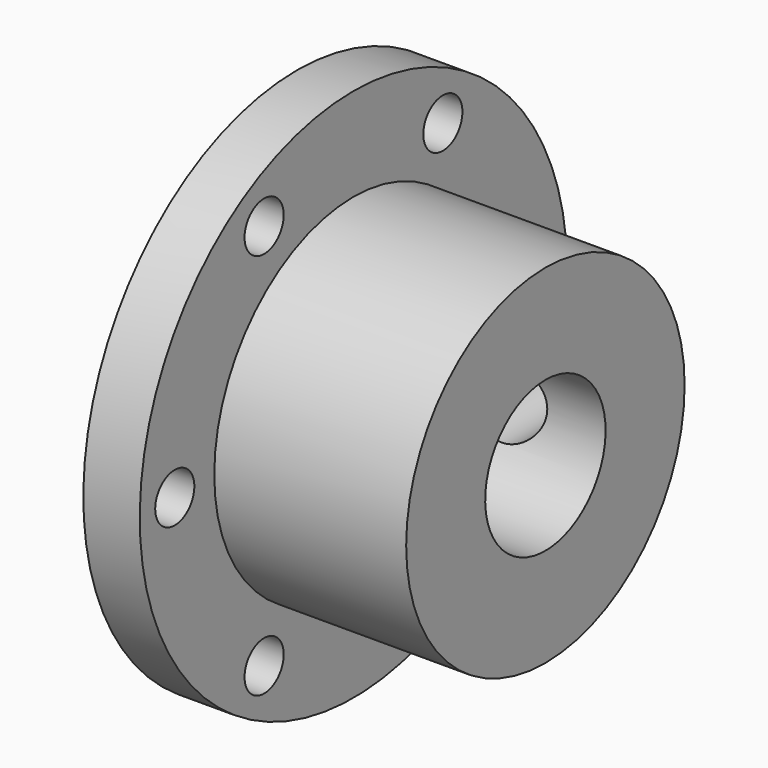
from build123d import *

# Parameters (mm, degrees)
F2_R     = 2.6
F3_DEPTH = 26.401
F4_R     = 4
F5_DEPTH = 28.401


with BuildPart() as f1:
    # F0 (on Front) → F1 (revolve)
    with BuildSketch(Plane.XZ):
        Polygon((-18.267291, 28.4), (-18.267291, 8), (8.132709, 8), (8.132709, 18.5), (-12.267291, 18.5), (-12.267291, 28.4), align=None)
    revolve(axis=Axis((255.325076, 0, 0), (1, 0, 0)))

    # F2 (on face) → F3 (cut, through all)
    with BuildSketch(Plane(origin=(-18.267291, 0, 0), x_dir=(0, -1, 0), z_dir=(-1, 0, 0))):
        with Locations((-23.75, 0)):
            Circle(F2_R)
        with Locations((-11.875, -20.568103)):
            Circle(F2_R)
        with Locations((11.875, -20.568103)):
            Circle(F2_R)
        with Locations((23.75, 0)):
            Circle(F2_R)
        with Locations((11.875, 20.568103)):
            Circle(F2_R)
        with Locations((-11.875, 20.568103)):
            Circle(F2_R)
    extrude(amount=-F3_DEPTH, mode=Mode.SUBTRACT)

    # F4 (on Front) → F5 (cut, through all)
    with BuildSketch(Plane.XZ):
        with Locations((-2.067291, 0)):
            Circle(F4_R)
    extrude(amount=-F5_DEPTH, mode=Mode.SUBTRACT)


solid = f1.part
